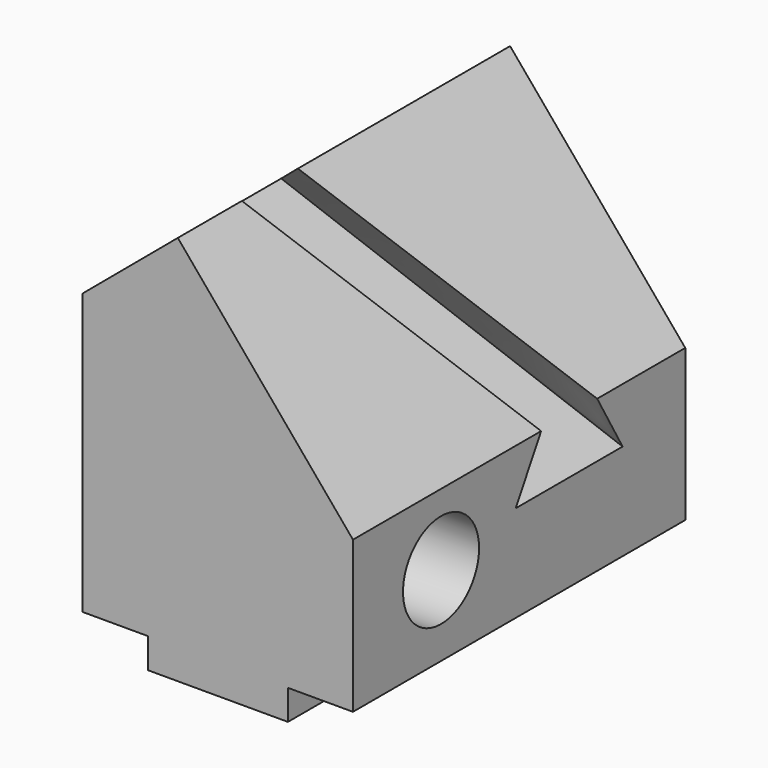
from build123d import *

# Parameters (mm, degrees)
F1_DEPTH = 830
F2_R     = 95
F5_DEPTH = 540.001


with BuildPart() as f1:
    # F0 (on Front) → F1 (new body)
    with BuildSketch(Plane.XZ):
        Polygon((-645.752296802, 876.8817598489), (-835.752296802, 717.4528299252), (-835.752296802, 156.8817598489), (-705.752296802, 156.8817598489), (-705.752296802, 96.8817598489), (-425.752296802, 96.8817598489), (-425.752296802, 156.8817598489), (-295.752296802, 156.8817598489), (-295.752296802, 459.7680024409), align=None)
    extrude(amount=F1_DEPTH)

    # F2 (on face) → F4 section 0
    with BuildSketch(Plane.YZ.offset(-295.752296802)):
        Polygon((-220, 459.7680024409), (-360, 459.7680024409), (-423.5085296109, 349.7680024409), (-156.4914703891, 349.7680024409), align=None)
    # F3 (on face) → F4 section 1
    with BuildSketch(Plane(origin=(-698.5892714061, 0, 832.546273946), x_dir=(0.7660444431, 0, 0.6427876097), z_dir=(-0.6427876097, 0, 0.7660444431))):
        Polygon((-41.0262282055, -733.5085296109), (68.9737717945, -670), (68.9737717945, -530), (-41.0262282055, -466.4914703891), align=None)
    loft(mode=Mode.SUBTRACT)

    # F2 (on face) → F5 (cut, through all)
    with BuildSketch(Plane.YZ.offset(-295.752296802)):
        with Locations((-610, 316.8817598489)):
            Circle(F2_R)
    extrude(amount=-F5_DEPTH, mode=Mode.SUBTRACT)


solid = f1.part
